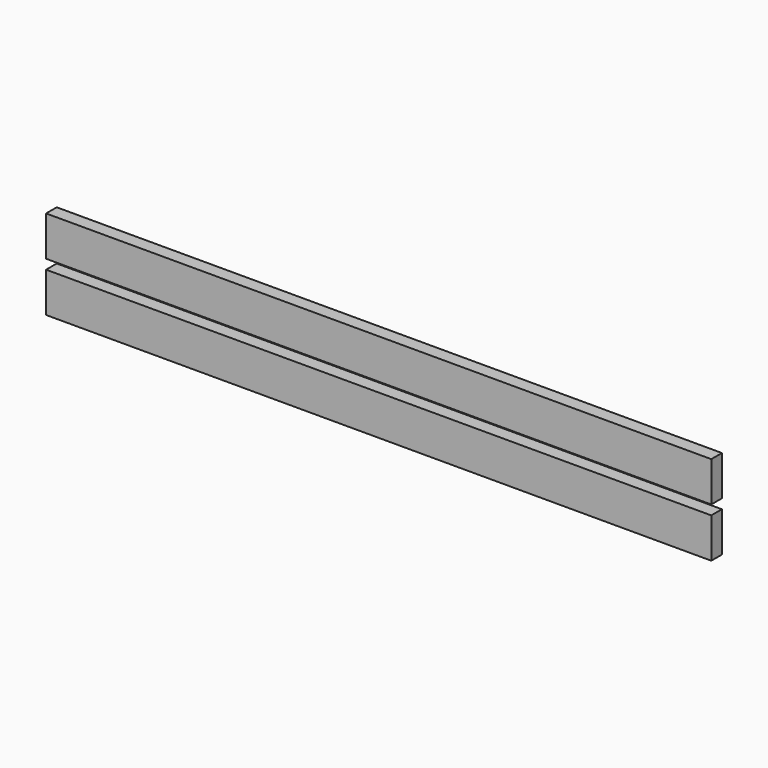
from build123d import *

# Parameters (mm, degrees)
F0_W     = 635
F0_H     = 38.1
F1_DEPTH = 12.7


with BuildPart() as f1:
    # F0 (on Front) → F1 (new body)
    with BuildSketch(Plane.XZ):
        with Locations((0, 47.266053)):
            Rectangle(F0_W, F0_H)
        Rectangle(F0_W, F0_H)
    extrude(amount=F1_DEPTH)


solid = f1.part
